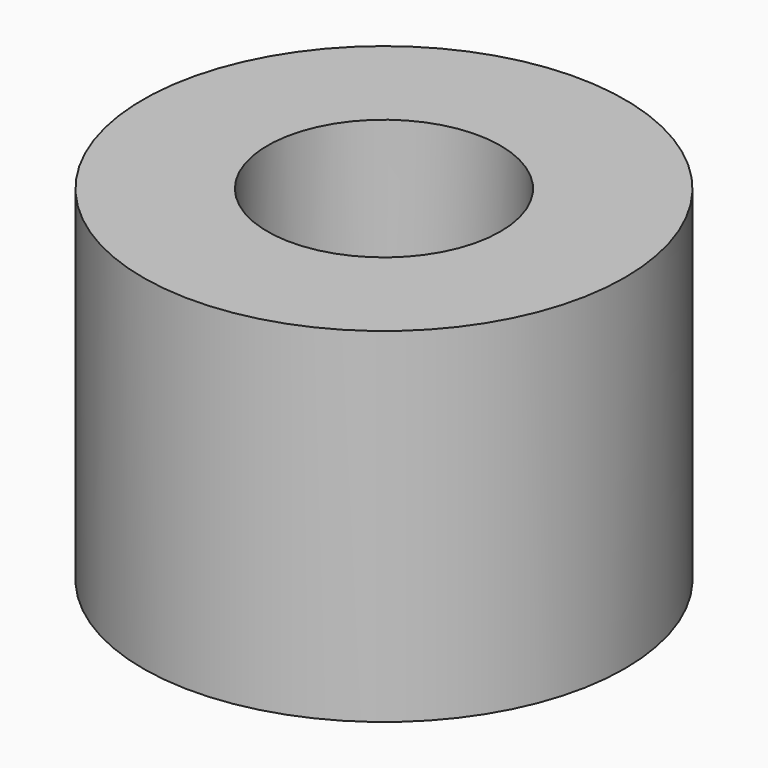
from build123d import *

# Parameters (mm, degrees)
F0_R     = 10.5
F0_R_2   = 2.6
F1_DEPTH = 15
F3_START = 7.5
F2_R     = 5.075
F3_DEPTH = 7.5


with BuildPart() as f1:
    # F0 (on Top) → F1 (new body)
    with BuildSketch(Plane.XY):
        Circle(F0_R)
        Circle(F0_R_2, mode=Mode.SUBTRACT)
    extrude(amount=F1_DEPTH)

    # F2 (on Top) → F3 (cut)
    with BuildSketch(Plane.XY.offset(F3_START)):
        Circle(F2_R)
    extrude(amount=F3_DEPTH, mode=Mode.SUBTRACT)


solid = f1.part
